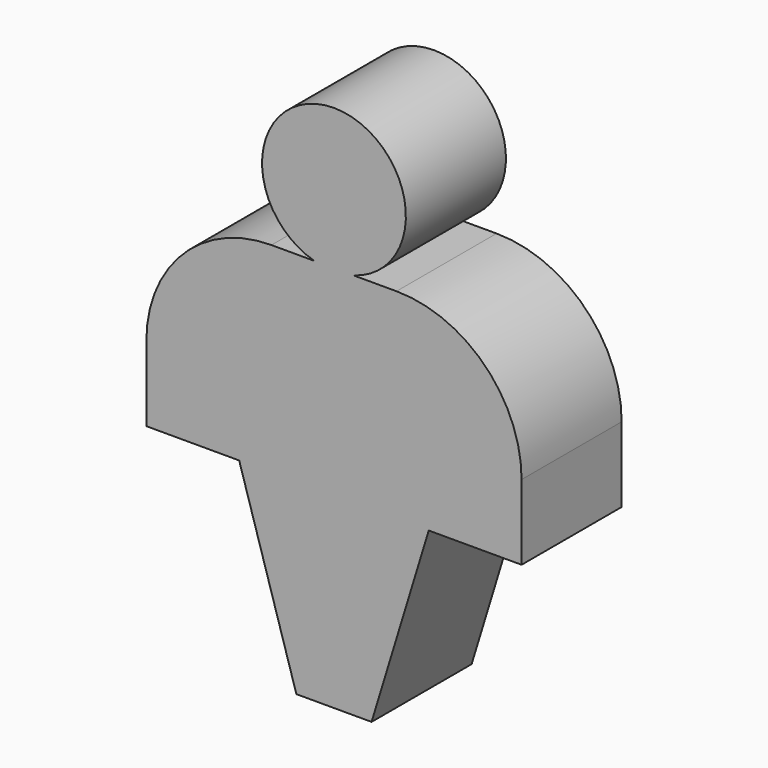
from build123d import *

# Parameters (mm, degrees)
F2_DEPTH      = 12.7
F2_DEPTH_BACK = 12.7
F1_R          = 14.6016547105
F3_DEPTH      = 12.7
F3_DEPTH_BACK = 12.7


with BuildPart() as f2:
    # F0 (on Front) → F2 (new body, two sides)
    with BuildSketch(Plane.XZ) as f2_sk:
        with BuildLine():
            Line((12.7, 34.4253193842), (0, 34.4253193842))
            Line((0, 34.4253193842), (0, -5.8595561422))
            Line((0, -5.8595561422), (0, -6.2146806158))
            Line((0, -6.2146806158), (19.245794032, -6.2146806158))
            Line((19.245794032, -6.2146806158), (38.1, -6.2146806158))
            Line((38.1, -6.2146806158), (38.1, 9.0253193842))
            ThreePointArc((38.1, 9.0253193842), (30.6605122421, 26.9858316263), (12.7, 34.4253193842))
        make_face()
        with BuildLine():
            Line((0, -5.8595561422), (0, 34.4253193842))
            Line((0, 34.4253193842), (-12.7, 34.4253193842))
            ThreePointArc((-12.7, 34.4253193842), (-30.6605122421, 26.9858316263), (-38.1, 9.0253193842))
            Line((-38.1, 9.0253193842), (-38.1, -6.2146806158))
            Line((-38.1, -6.2146806158), (-19.245794032, -6.2146806158))
            Line((-19.245794032, -6.2146806158), (0, -5.8595561422))
        make_face()
        Polygon((0, -6.2146806158), (0, -5.8595561422), (-19.245794032, -6.2146806158), align=None)
        Polygon((19.245794032, -6.2146806158), (0, -6.2146806158), (-19.245794032, -6.2146806158), (-7.6351859607, -44.2130304873), (7.6351859607, -44.2130304873), align=None)
    extrude(amount=F2_DEPTH)
    extrude(f2_sk.sketch, amount=-F2_DEPTH_BACK)

    # F1 (on Front) → F3 (join, two sides)
    with BuildSketch(Plane.XZ) as f3_sk:
        with Locations((0, 48.4745278955)):
            Circle(F1_R)
    extrude(amount=F3_DEPTH)
    extrude(f3_sk.sketch, amount=-F3_DEPTH_BACK)


solid = f2.part
